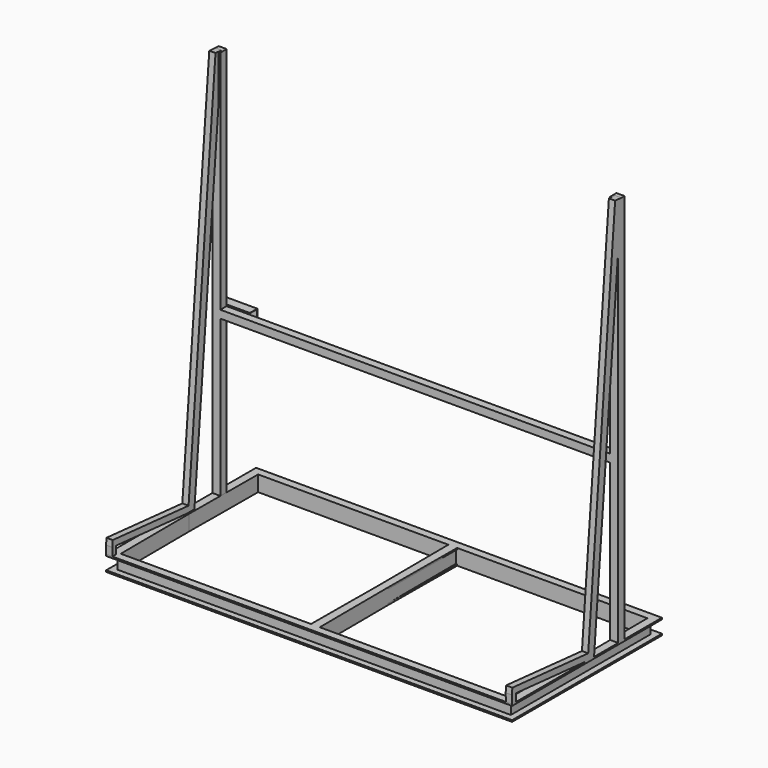
from build123d import *

# Parameters (mm, degrees)
F0_W          = 2600
F0_H          = 1200
F1_DEPTH      = 100
F2_W          = 40
F2_H          = 80
F3_DEPTH      = 2600.001
F4_W          = 40
F4_H          = 80
F5_DEPTH      = 1160.001
F6_W          = 90
F6_H          = 80
F7_DEPTH      = 550
F7_DEPTH_BACK = 550
F8_W          = 48.5726841614
F8_H          = 50
F8_W_2        = 51.4265014179
F9_DEPTH      = 2500
F11_DEPTH     = 40
F13_W         = 50
F13_H         = 50
F14_DEPTH     = 2497.1469971642
F15_W         = 60
F15_H         = 60
F15_W_2       = 55
F15_H_2       = 55
F16_DEPTH     = 200


with BuildPart() as f1:
    # F0 (on Top) → F1 (new body)
    with BuildSketch(Plane.XY):
        Rectangle(F0_W, F0_H)
        Polygon((-1246.8612082282, -550), (-1253.1396061924, 550), (-28.1396061924, 550), (-21.8612082282, -550), align=None, mode=Mode.SUBTRACT)
        Polygon((21.8612082282, 550), (1246.8612082282, 550), (1253.1396061924, -550), (28.1396061924, -550), align=None, mode=Mode.SUBTRACT)
    extrude(amount=F1_DEPTH)

    # F2 (on face) → F3 (cut, through all)
    with BuildSketch(Plane(origin=(-1300, 0, 0), x_dir=(0, -1, 0), z_dir=(-1, 0, 0))):
        with Locations((-580, 50)):
            Rectangle(F2_W, F2_H)
        with Locations((580, 50)):
            Rectangle(F2_W, F2_H)
    extrude(amount=-F3_DEPTH, mode=Mode.SUBTRACT)

    # F4 (on face) → F5 (cut, through all)
    with BuildSketch(Plane.XZ.offset(560)):
        with Locations((1280, 50)):
            Rectangle(F4_W, F4_H)
        with Locations((-1280, 50)):
            Rectangle(F4_W, F4_H)
    extrude(amount=-F5_DEPTH, mode=Mode.SUBTRACT)

    # F6 (on Front) → F7 (cut, two sides)
    with BuildSketch(Plane.XZ) as f7_sk:
        with Locations((-45, 50)):
            Rectangle(F6_W, F6_H)
    extrude(amount=-F7_DEPTH, mode=Mode.SUBTRACT)
    extrude(f7_sk.sketch, amount=F7_DEPTH_BACK, mode=Mode.SUBTRACT)

    # F8 (on face) → F9 (join)
    with BuildSketch(Plane.XY.offset(100)):
        with Locations((-1275.7136579193, 275)):
            Rectangle(F8_W, F8_H)
        with Locations((1274.286749291, 275)):
            Rectangle(F8_W_2, F8_H)
    extrude(amount=F9_DEPTH)

    # F10 (on face) → F11 (join)
    with BuildSketch(Plane(origin=(-1300, 0, 0), x_dir=(0, -1, 0), z_dir=(-1, 0, 0))):
        Polygon((-56.2783411852, 100), (-56.1893342614, 98.9826462062), (-5.9983423843, 98.9826462062), (-6.0207137863, 99.238352502), (-6.087349308, 100), align=None)
        Polygon((-250, 2314.248692431), (-56.2783411852, 100), (-6.087349308, 100), (-9.5069434963, 139.0861404257), (-225.1902650954, 2604.3577871374), (-275, 2600), (-250, 2600), align=None)
        Polygon((-9.5069434963, 139.0861404257), (-6.087349308, 100), (2.684956952, 100), (570.0262784958, 149.6359339849), (601.1466387735, 152.358612714), (601.1508236042, 152.3589788393), (597.6645938943, 192.206766763), align=None)
        Polygon((601.1466387735, 152.358612714), (570.0262784958, 149.6359339849), (570.0262784958, 100), (600, 100), align=None)
    extrude(amount=-F11_DEPTH)

    # F12: F1 across plane


with BuildPart() as f1_1:
    add(f1.part)
    add(f1.part.mirror(Plane.YZ))

    # F13 (on face) → F14 (join, through all)
    with BuildSketch(Plane.YZ.offset(-1248.5734985821)):
        with Locations((275, 1125)):
            Rectangle(F13_W, F13_H)
    extrude(amount=F14_DEPTH)

    # F15 (on face) → F16 (join)
    with BuildSketch(Plane(origin=(-1300, 0, 0), x_dir=(0, -1, 0), z_dir=(-1, 0, 0))):
        with Locations((-330, 1130)):
            Rectangle(F15_W, F15_H)
        with Locations((-330, 1130)):
            Rectangle(F15_W_2, F15_H_2, mode=Mode.SUBTRACT)
    extrude(amount=-F16_DEPTH)


solid = f1_1.part
